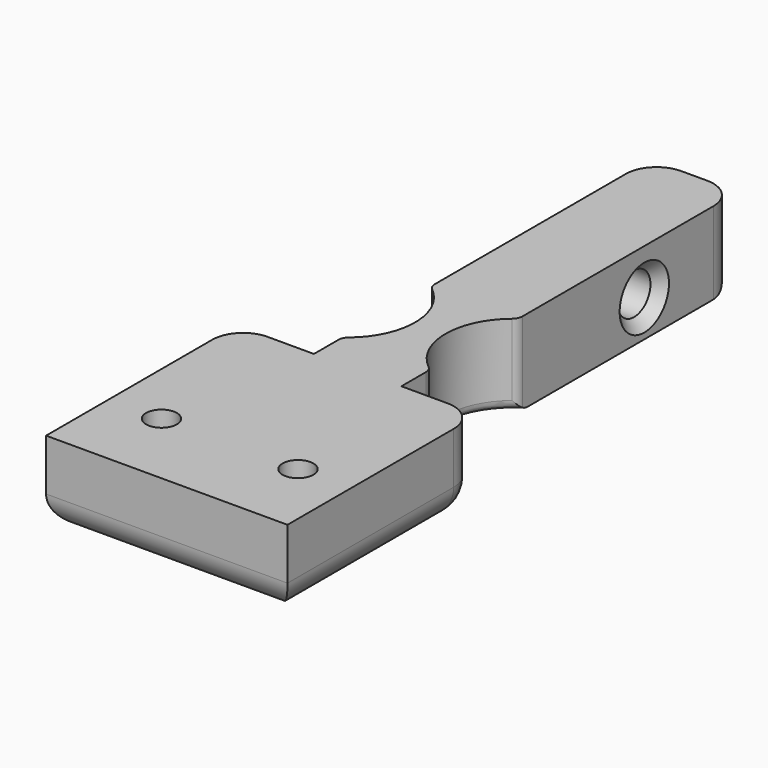
from build123d import *

# Parameters (mm, degrees)
F0_W          = 8.5162539035
F0_H          = 18.7663150777
F0_H_2        = 40.954434668
F1_DEPTH      = 8
F2_R          = 3
F3_R          = 1.5
F4_DEPTH      = 25
F5_R          = 2
F6_DEPTH      = 13.4
F6_DEPTH_BACK = 25
F7_SIZE       = 1
F8_R          = 6.5791532239
F9_DEPTH      = 25
F10_R         = 1


with BuildPart() as f1:
    # F0 (on Top) → F1 (new body)
    with BuildSketch(Plane.XY):
        Polygon((11.7504801601, 36.198887974), (11.7504801601, 59.4197693529), (4.2642612243, 59.4197693529), (4.2642612243, 40.6534542753), (-4.2519926792, 40.6534542753), (-4.2519926792, 59.4197693529), (-11.7504801601, 59.4197693529), (-11.7504801601, 36.198887974), align=None)
        with Locations((0.0061342726, 50.0366118141)):
            Rectangle(F0_W, F0_H)
        with Locations((0.0061342726, 79.8969866869)):
            Rectangle(F0_W, F0_H_2)
    extrude(amount=-F1_DEPTH)

    # F2
    f2_edges = [f1.edges().sort_by_distance(p)[0] for p in [
        (-11.75048, 59.419769, -4),
        (11.75048, 59.419769, -4),
        (-4.251993, 100.374204, -4),
        (4.264261, 100.374204, -4),
        (0, 36.198888, -8),
        (-8.001236, 59.419769, -8),
        (8.007371, 59.419769, -8),
        (-11.75048, 47.809329, -8),
        (11.75048, 47.809329, -8),
        (0.006134, 100.374204, -8),
    ]]
    fillet(f2_edges, radius=F2_R)

    # F3 (on Top) → F4 (cut)
    with BuildSketch(Plane.XY):
        with Locations((-6.6438065842, 43.8586436212)):
            Circle(F3_R)
        with Locations((6.6438065842, 43.8586436212)):
            Circle(F3_R)
    extrude(amount=-F4_DEPTH, mode=Mode.SUBTRACT)

    # F5 (on Right) → F6 (cut, two sides)
    with BuildSketch(Plane.YZ) as f6_sk:
        with Locations((88.9796987176, -4.4162971899)):
            Circle(F5_R)
    extrude(amount=-F6_DEPTH, mode=Mode.SUBTRACT)
    extrude(f6_sk.sketch, amount=F6_DEPTH_BACK, mode=Mode.SUBTRACT)

    # F7
    f7_edges = [f1.edges().sort_by_distance(p)[0] for p in [
        (4.264261, 86.979699, -4.416297),
        (-4.251993, 86.979699, -4.416297),
    ]]
    chamfer(f7_edges, length=F7_SIZE)

    # F8 (on Top) → F9 (cut)
    with BuildSketch(Plane.XY):
        with Locations((8.0665275455, 68.2693198323)):
            Circle(F8_R)
        with Locations((-8.0665275455, 68.2693198323)):
            Circle(F8_R)
    extrude(amount=-F9_DEPTH, mode=Mode.SUBTRACT)

    # F10
    f10_edges = [f1.edges().sort_by_distance(p)[0] for p in [
        (-1.487374, 68.26932, -8),
        (1.487374, 68.26932, -8),
        (4.264261, 62.900146, -4),
        (4.264261, 73.638494, -4),
        (-4.251993, 62.908855, -4),
        (-4.251993, 73.629784, -4),
    ]]
    fillet(f10_edges, radius=F10_R)


solid = f1.part
